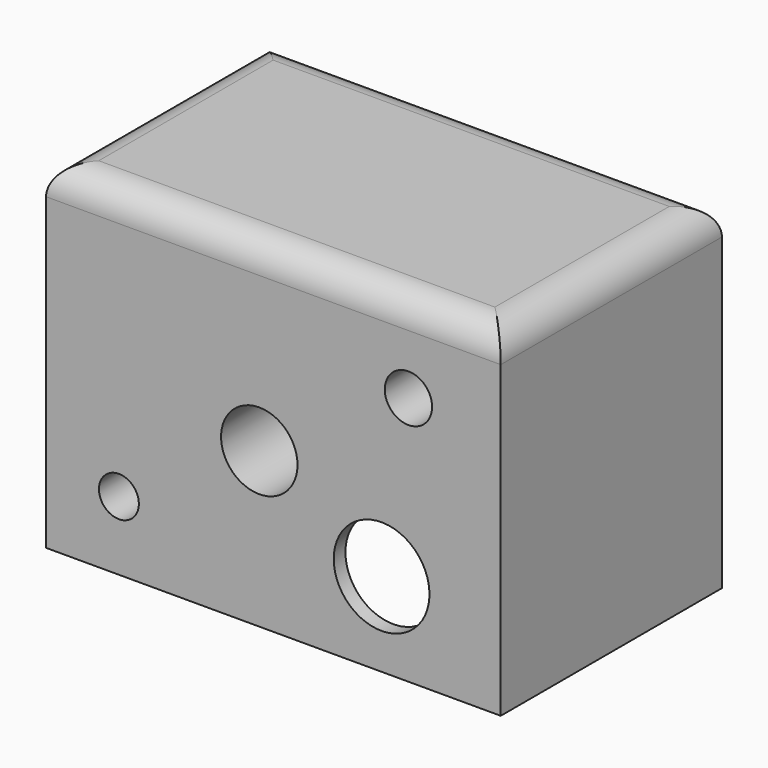
from build123d import *

# Parameters (mm, degrees)
F0_W     = 310.82517
F0_H     = 231.34768
F1_DEPTH = 189
F2_R     = 20
F3_R     = 13.644912
F3_R_2   = 26.127936
F3_R_3   = 16.173919
F4_DEPTH = 189.001
F5_T     = -10
F6_R     = 32.715141
F7_DEPTH = 189.001


with BuildPart() as f1:
    # F0 (on Front) → F1 (new body)
    with BuildSketch(Plane.XZ):
        Rectangle(F0_W, F0_H)
    extrude(amount=F1_DEPTH)

    # F2
    f2_edges = [f1.edges().sort_by_distance(p)[0] for p in [
        (155.412585, -94.5, 115.67384),
        (-155.412585, -94.5, 115.67384),
        (0, 0, 115.67384),
        (0, -189, 115.67384),
    ]]
    fillet(f2_edges, radius=F2_R)

    # F3 (on face) → F4 (cut, through all)
    with BuildSketch(Plane.XZ.offset(189)):
        with Locations((-105.628975, -68.58331)):
            Circle(F3_R)
        with Locations((-9.658518, -9.867162)):
            Circle(F3_R_2)
        with Locations((92.311822, 54.978933)):
            Circle(F3_R_3)
    extrude(amount=-F4_DEPTH, mode=Mode.SUBTRACT)

    # F5
    f5_openings = [f1.faces().sort_by_distance(p)[0] for p in [
        (0, -94.5, -115.67384),
    ]]
    offset(amount=F5_T, openings=f5_openings)

    # F6 (on face) → F7 (cut, through all)
    with BuildSketch(Plane(origin=(0, 0, 0), x_dir=(-1, 0, 0), z_dir=(0, 1, 0))):
        with Locations((-73.95748, -58.360144)):
            Circle(F6_R)
    extrude(amount=-F7_DEPTH, mode=Mode.SUBTRACT)


solid = f1.part
